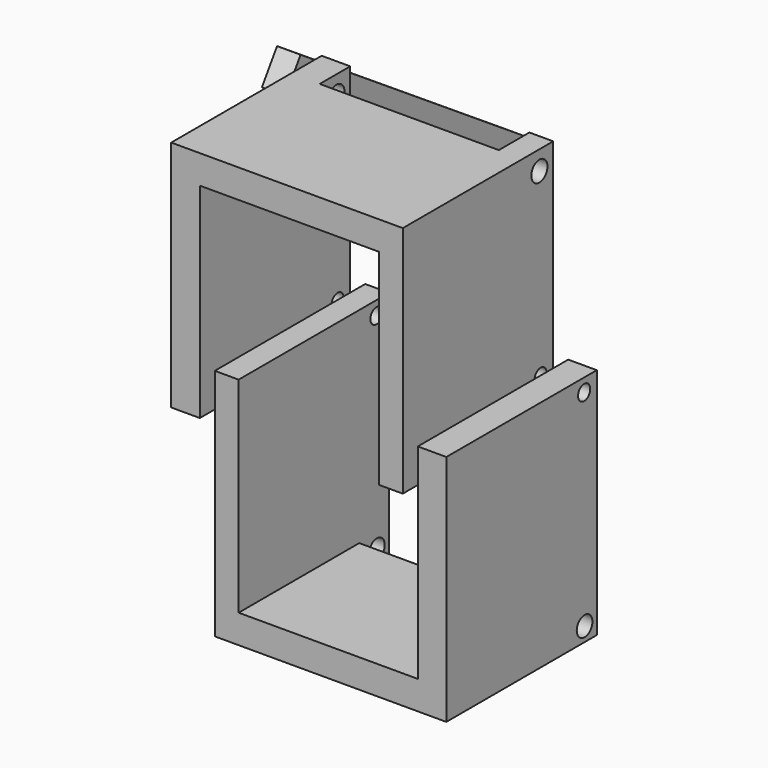
from build123d import *

# Parameters (mm, degrees)
F1_DEPTH  = 203.2
F3_ANGLE  = 180
F6_R      = 8.207243473
F7_DEPTH  = 297.3347297916
F8_W      = 193.5693174601
F8_H      = 41.2535853684
F9_DEPTH  = 30.9070513973
F10_W     = 193.5693174601
F10_H     = 40.2909778059
F11_DEPTH = 30.9070513973
F12_R     = 10.9109281405
F12_R_2   = 10.604522365
F13_DEPTH = 297.3347297916
F15_DEPTH = 25.4


with BuildPart() as f1:
    # F0 (on Front) → F1 (new body)
    with BuildSketch(Plane.XZ):
        Polygon((-56.2205016613, 34.8792113364), (-82.0120275021, 34.8792113364), (-82.0120275021, -217.7654653788), (168.2548373938, -217.7654653788), (168.2548373938, 34.2834014446), (137.3488157988, 34.2834014446), (137.3488157988, -186.8594139814), (-56.2205016613, -186.8594139814), align=None)
    extrude(amount=F1_DEPTH)


with BuildPart() as f2_1:
    # F2: copy of F1
    add(f1.part.moved(Location((254, 0, 0))))


with BuildPart() as f2_1_1:
    # F3: moved
    add(f2_1.part.rotate(Axis((171.9879724979, -101.6, 34.8792113364), (0, 1, 0)), F3_ANGLE))


with BuildPart() as f2_1_2:
    # F4: moved
    add(f2_1_1.part.moved(Location((0, 0, -50.8))))


with BuildPart() as f2_1_3:
    # F5: moved
    add(f2_1_2.part.moved(Location((-50.8, 0, 0))))


with BuildPart() as f7_tool:
    # F6 (on face) → F7 (new body, through all)
    with BuildSketch(Plane.YZ.offset(168.2548373938)):
        with Locations((-17.0478224754, 20.0315136462)):
            Circle(F6_R)
    extrude(amount=-F7_DEPTH)


with BuildPart() as f1_1:
    add(f1.part)

    # F7: cut by f7_tool
    add(f7_tool.part, mode=Mode.SUBTRACT)

    # F10 (on face) → F11 (cut, through all)
    with BuildSketch(Plane.XY.offset(-186.8594139814)):
        with Locations((40.5641570687, -20.1454889029)):
            Rectangle(F10_W, F10_H)
    extrude(amount=-F11_DEPTH, mode=Mode.SUBTRACT)


with BuildPart() as f2_1_4:
    add(f2_1_3.part)

    # F7: cut by f7_tool
    add(f7_tool.part, mode=Mode.SUBTRACT)

    # F8 (on face) → F9 (cut, through all)
    with BuildSketch(Plane(origin=(0, 0, 205.8178366542), x_dir=(1, 0, 0), z_dir=(0, 0, -1))):
        with Locations((-1.3882120728, 20.6267926842)):
            Rectangle(F8_W, F8_H)
    extrude(amount=-F9_DEPTH, mode=Mode.SUBTRACT)


with BuildPart() as f13_tool:
    # F12 (on face) → F13 (new body, through all)
    with BuildSketch(Plane(origin=(-129.0788923979, 0, 0), x_dir=(0, -1, 0), z_dir=(-1, 0, 0))):
        with Locations((18.691258505, 215.9641683102)):
            Circle(F12_R)
        with Locations((16.460718587, -202.4726718664)):
            Circle(F12_R_2)
    extrude(amount=-F13_DEPTH)


with BuildPart() as f1_2:
    add(f1_1.part)

    # F13: cut by f13_tool
    add(f13_tool.part, mode=Mode.SUBTRACT)


with BuildPart() as f2_1_5:
    add(f2_1_4.part)

    # F13: cut by f13_tool
    add(f13_tool.part, mode=Mode.SUBTRACT)

    # F14 (on face) → F15 (join)
    with BuildSketch(Plane(origin=(-129.0788923979, 0, 0), x_dir=(0, -1, 0), z_dir=(-1, 0, 0))):
        Polygon((-278.4207538602, 45.9725076163), (-260.46448946, 13.336029835), (48.9830560982, 218.2893455029), (28.4830986757, 249.2410843794), align=None)
    extrude(amount=F15_DEPTH)


solid = Compound([f1_2.part, f2_1_5.part])
